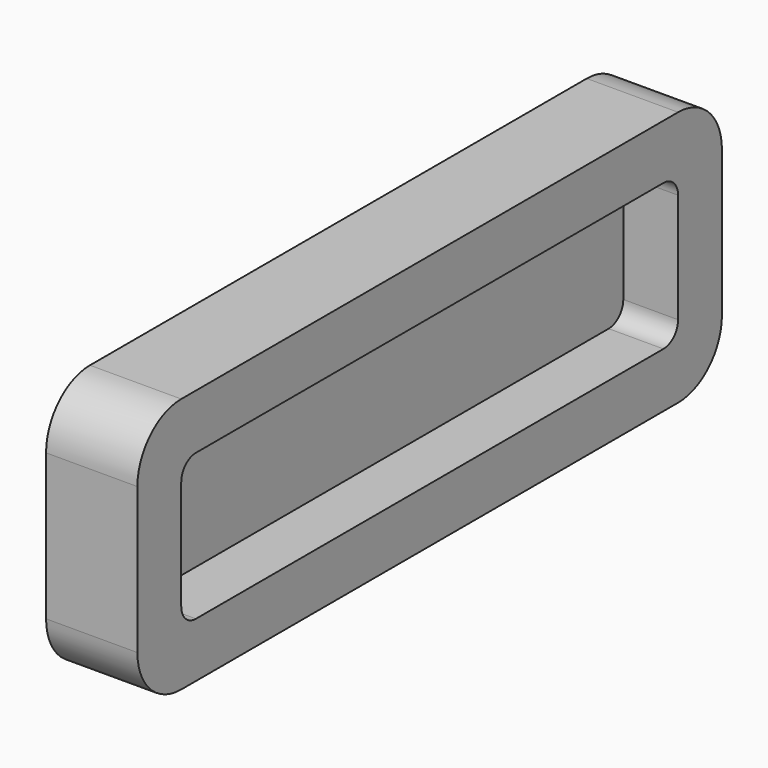
from build123d import *

# Parameters (mm, degrees)
F1_DEPTH = 25
F3_DEPTH = 15


with BuildPart() as f1:
    # F0 (on Right) → F1 (new body)
    with BuildSketch(Plane.YZ):
        with BuildLine():
            Line((84.053826, 73.620606), (-85.946174, 73.620606))
            ThreePointArc((-85.946174, 73.620606), (-96.552776, 69.227208), (-100.946174, 58.620606))
            Line((-100.946174, 58.620606), (-100.946174, 18.620606))
            ThreePointArc((-100.946174, 18.620606), (-96.552776, 8.014004), (-85.946174, 3.620606))
            Line((-85.946174, 3.620606), (84.053826, 3.620606))
            ThreePointArc((84.053826, 3.620606), (94.660428, 8.014004), (99.053826, 18.620606))
            Line((99.053826, 18.620606), (99.053826, 58.620606))
            ThreePointArc((99.053826, 58.620606), (94.660428, 69.227208), (84.053826, 73.620606))
        make_face()
    extrude(amount=F1_DEPTH)

    # F2 (on face) → F3 (cut)
    with BuildSketch(Plane.YZ.offset(25)):
        with BuildLine():
            Line((79.053826, 58.620606), (-80.946174, 58.620606))
            ThreePointArc((-80.946174, 58.620606), (-84.481708, 57.15614), (-85.946174, 53.620606))
            Line((-85.946174, 53.620606), (-85.946174, 23.620606))
            ThreePointArc((-85.946174, 23.620606), (-84.481708, 20.085072), (-80.946174, 18.620606))
            Line((-80.946174, 18.620606), (79.053826, 18.620606))
            ThreePointArc((79.053826, 18.620606), (82.58936, 20.085072), (84.053826, 23.620606))
            Line((84.053826, 23.620606), (84.053826, 53.620606))
            ThreePointArc((84.053826, 53.620606), (82.58936, 57.15614), (79.053826, 58.620606))
        make_face()
    extrude(amount=-F3_DEPTH, mode=Mode.SUBTRACT)


solid = f1.part
